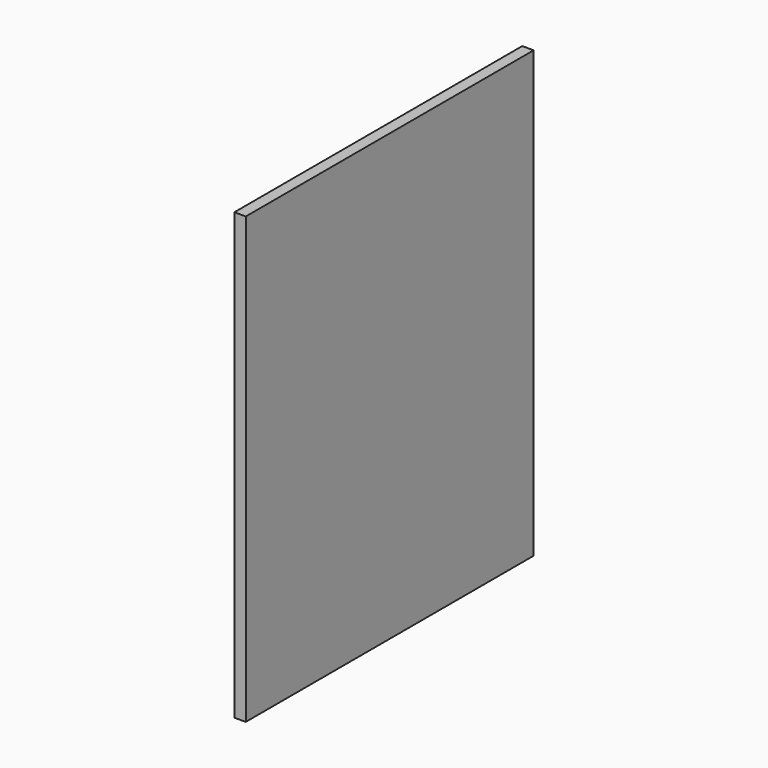
from build123d import *

# Parameters (mm, degrees)
SKETCH001_W  = 600
SKETCH001_H  = 742
PAD001_DEPTH = 19


with BuildPart() as part:
    # Sketch001 → Pad001 (new body)
    with BuildSketch(Plane.YZ):
        Rectangle(SKETCH001_W, SKETCH001_H)
    extrude(amount=PAD001_DEPTH)


solid = part.part
